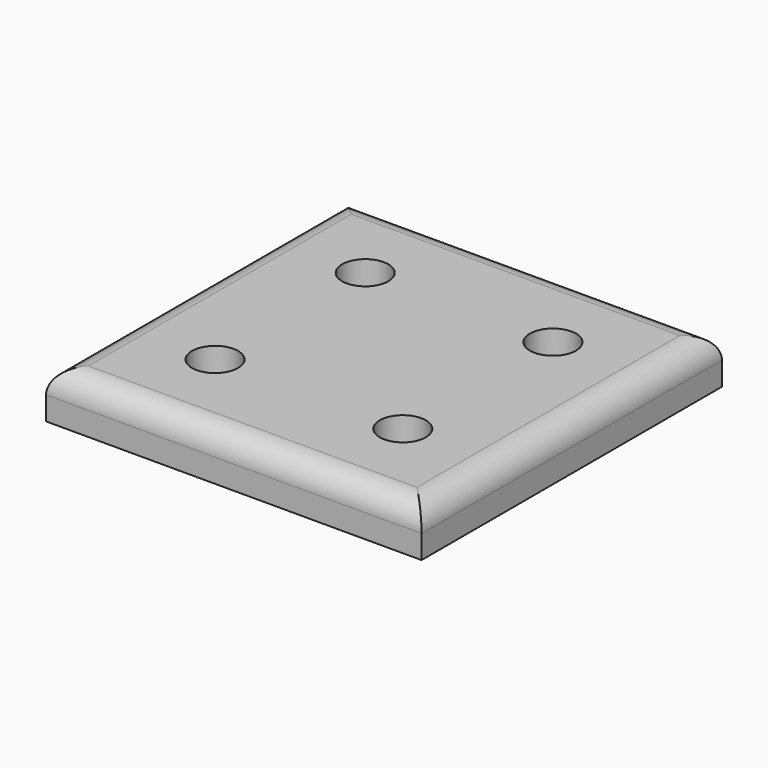
from build123d import *

# Parameters (mm, degrees)
F0_W     = 40
F0_H     = 40
F0_R     = 2.457074
F1_DEPTH = 5
F2_R     = 2.5


with BuildPart() as f1:
    # F0 (on Top) → F1 (new body)
    with BuildSketch(Plane.XY):
        Rectangle(F0_W, F0_H)
        with Locations((-10, -10)):
            Circle(F0_R, mode=Mode.SUBTRACT)
        with Locations((10, -10)):
            Circle(F0_R, mode=Mode.SUBTRACT)
        with Locations((-10, 10)):
            Circle(F0_R, mode=Mode.SUBTRACT)
        with Locations((10, 10)):
            Circle(F0_R, mode=Mode.SUBTRACT)
    extrude(amount=F1_DEPTH)

    # F2
    f2_edges = [f1.edges().sort_by_distance(p)[0] for p in [
        (0, -20, 5),
        (-20, 0, 5),
        (0, 20, 5),
        (20, 0, 5),
    ]]
    fillet(f2_edges, radius=F2_R)


solid = f1.part
